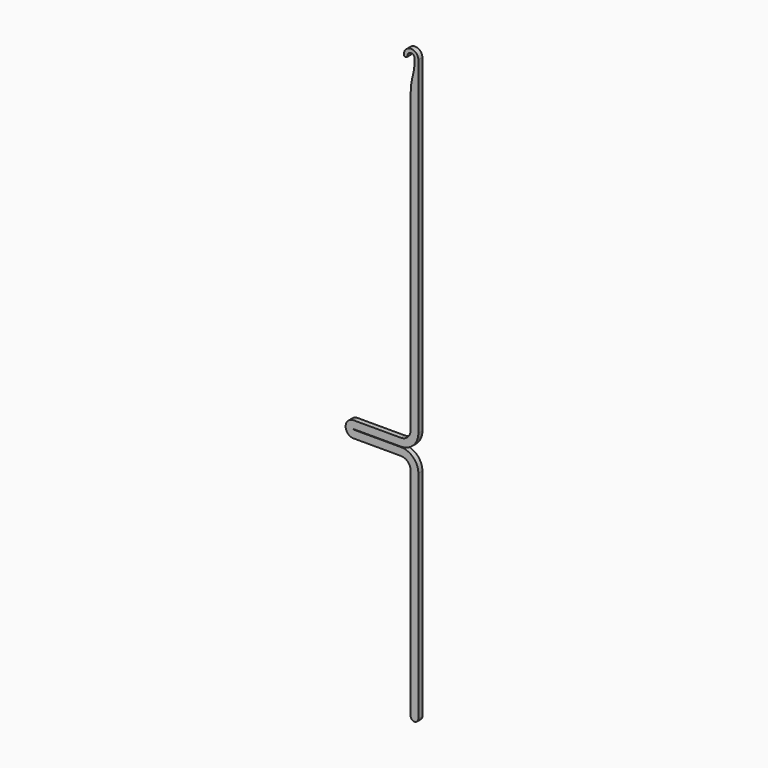
from build123d import *

# Parameters (mm, degrees)
F1_DEPTH = 0.585


with BuildPart() as f1:
    # F0 (on Front) → F1 (new body, symmetric)
    with BuildSketch(Plane.XZ):
        with BuildLine():
            add(Edge.make_bspline(
                [(-0.9, 0), (-0.9, 3.8525), (0.05, 3.8525), (0.05, 7.705)],
                knots=[0, 0, 0, 0, 7.763345, 7.763345, 7.763345, 7.763345], degree=3))
            Line((-0.9, 0), (-0.9, -13.695881))
            Line((-0.9, -13.695881), (-0.9, -68.63))
            ThreePointArc((-0.9, -68.63), (-1.55901, -70.22099), (-3.15, -70.88))
            Line((-3.15, -70.88), (-14.135, -70.88))
            ThreePointArc((-14.135, -70.88), (-15.99, -72.735), (-14.135, -74.59))
            Line((-14.135, -74.59), (-3.15, -74.59))
            ThreePointArc((-3.15, -74.59), (-1.55901, -75.24901), (-0.9, -76.84))
            Line((-0.9, -76.84), (-0.9, -126.99))
            ThreePointArc((-0.9, -126.99), (0, -127.89), (0.9, -126.99))
            Line((0.9, -126.99), (0.9, -76.84))
            ThreePointArc((0.9, -76.84), (-0.286218, -73.976218), (-3.15, -72.79))
            Line((-3.15, -72.79), (-14.135, -72.79))
            ThreePointArc((-14.135, -72.79), (-14.19, -72.735), (-14.135, -72.68))
            Line((-14.135, -72.68), (-3.15, -72.68))
            ThreePointArc((-3.15, -72.68), (-0.286218, -71.493782), (0.9, -68.63))
            Line((0.9, -68.63), (0.9, -13.775932))
            Line((0.9, -13.775932), (0.9, 0))
            Line((0.9, 0), (0.9, 7.705))
            ThreePointArc((0.9, 7.705), (-0.785, 9.39), (-2.47, 7.705))
            ThreePointArc((-2.47, 7.705), (-2.045, 7.28), (-1.62, 7.705))
            ThreePointArc((-1.62, 7.705), (-0.785, 8.54), (0.05, 7.705))
        make_face()
    extrude(amount=F1_DEPTH, both=True)


solid = f1.part
